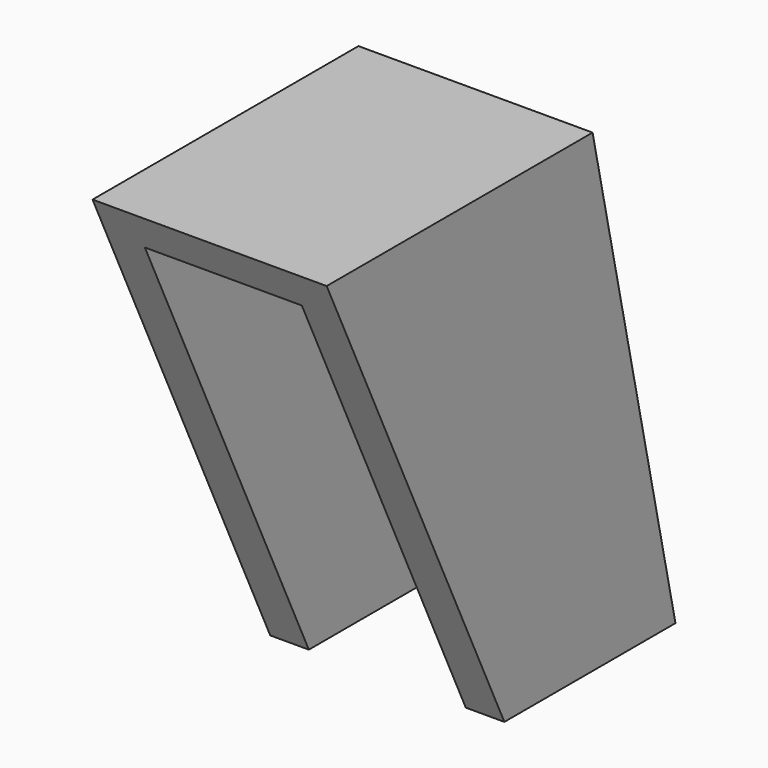
from build123d import *

# Parameters (mm, degrees)
F1_DEPTH = 23.114
F2_W     = 30.988
F2_H     = 94.282678
F3_DEPTH = 86.36


with BuildPart() as f1:
    # F0 (on Right) → F1 (new body, symmetric)
    with BuildSketch(Plane.YZ):
        Polygon((18.332004, 56.31125), (-47.292158, 56.31125), (-3.433616, -37.281614), (38.789531, -37.281614), align=None)
    extrude(amount=F1_DEPTH, both=True)

    # F2 (on face) → F3 (cut)
    with BuildSketch(Plane(origin=(0, 0, -37.281614), x_dir=(1, 0, 0), z_dir=(0, 0, -1))):
        with Locations((0, 3.863558)):
            Rectangle(F2_W, F2_H)
    extrude(amount=-F3_DEPTH, mode=Mode.SUBTRACT)


solid = f1.part
